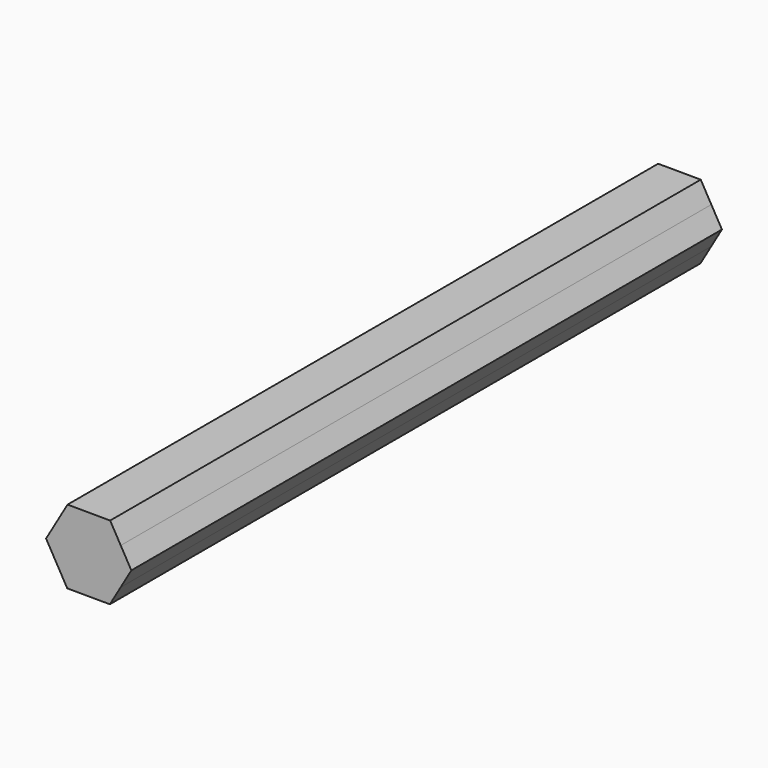
from build123d import *

# Parameters (mm, degrees)
F1_DEPTH = 127


with BuildPart() as f1:
    # F0 (on Front) → F1 (new body)
    with BuildSketch(Plane.XZ):
        with BuildLine():
            ThreePointArc((5.4872727498, -3.1956748535), (6.130525343, -1.6550404888), (6.35, 0))
            ThreePointArc((6.35, 0), (6.136710925, 1.6319555825), (5.5111719612, 3.1542802054))
            ThreePointArc((5.5111719612, 3.1542802054), (3.1956748226, 5.4872727678), (0.0238991973, 6.3499550257))
            ThreePointArc((0.0238991973, 6.3499550257), (-3.1542802223, 5.5111719515), (-5.4872727914, 3.195674782))
            ThreePointArc((-5.4872727914, 3.195674782), (-6.3499550258, 0.0238991699), (-5.5111719612, -3.1542802054))
            ThreePointArc((-5.5111719612, -3.1542802054), (-3.1956748226, -5.4872727678), (-0.0238991973, -6.3499550257))
            ThreePointArc((-0.0238991973, -6.3499550257), (3.1542801864, -5.511171972), (5.4872727498, -3.1956748535))
        make_face()
        with BuildLine():
            ThreePointArc((5.5111719612, 3.1542802054), (6.136710925, 1.6319555825), (6.35, 0))
            ThreePointArc((6.35, 0), (6.130525343, -1.6550404888), (5.4872727498, -3.1956748535))
            Line((5.4872727498, -3.1956748535), (7.3322964871, -0.027596355))
            Line((7.3322964871, -0.027596355), (5.5111719612, 3.1542802054))
        make_face()
        with BuildLine():
            ThreePointArc((0.0238991973, 6.3499550257), (3.1956748226, 5.4872727678), (5.5111719612, 3.1542802054))
            Line((5.5111719612, 3.1542802054), (3.690047388, 6.3361568484))
            Line((3.690047388, 6.3361568484), (0.0238991973, 6.3499550257))
        make_face()
        with BuildLine():
            Line((3.6422490991, -6.3637532034), (5.4872727498, -3.1956748535))
            ThreePointArc((5.4872727498, -3.1956748535), (3.1542801864, -5.511171972), (-0.0238991973, -6.3499550257))
            Line((-0.0238991973, -6.3499550257), (3.6422490991, -6.3637532034))
        make_face()
        with BuildLine():
            ThreePointArc((-5.4872727914, 3.195674782), (-3.1542802223, 5.5111719515), (0.0238991973, 6.3499550257))
            Line((0.0238991973, 6.3499550257), (-3.6422490991, 6.3637532034))
            Line((-3.6422490991, 6.3637532034), (-5.4872727914, 3.195674782))
        make_face()
        with BuildLine():
            Line((-3.690047388, -6.3361568484), (-0.0238991973, -6.3499550257))
            ThreePointArc((-0.0238991973, -6.3499550257), (-3.1956748226, -5.4872727678), (-5.5111719612, -3.1542802054))
            Line((-5.5111719612, -3.1542802054), (-3.690047388, -6.3361568484))
        make_face()
        with BuildLine():
            ThreePointArc((-5.5111719612, -3.1542802054), (-6.3499550258, 0.0238991699), (-5.4872727914, 3.195674782))
            Line((-5.4872727914, 3.195674782), (-7.3322964871, 0.027596355))
            Line((-7.3322964871, 0.027596355), (-5.5111719612, -3.1542802054))
        make_face()
    extrude(amount=F1_DEPTH)


solid = f1.part
